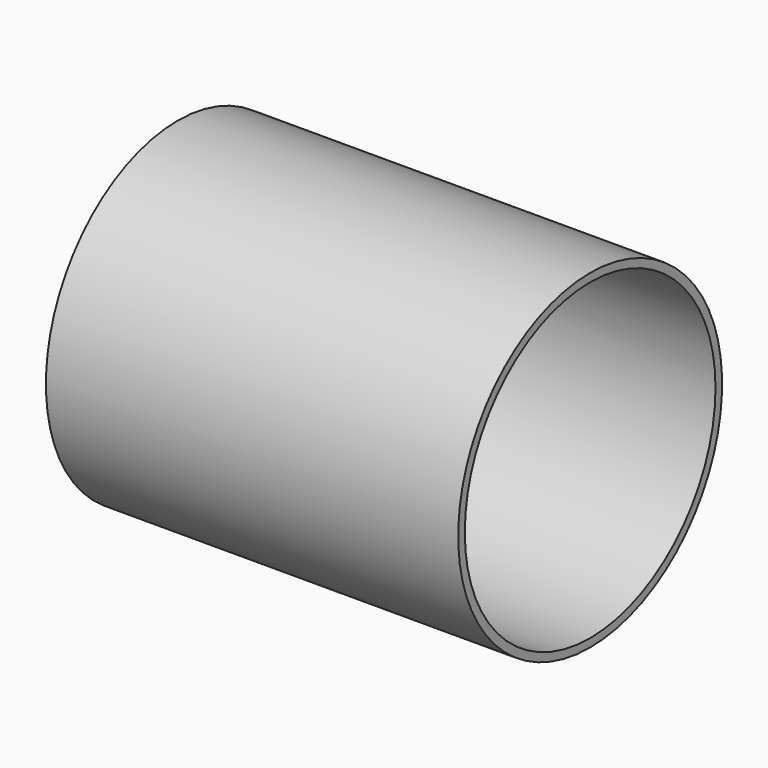
from build123d import *

# Parameters (mm, degrees)
CYLINDER146_R     = 1.9
CYLINDER146_DEPTH = 5
CYLINDER145_R     = 2
CYLINDER145_DEPTH = 5


with BuildPart() as cylinder003:
    # Cylinder146 → Cylinder146 (new body)
    with BuildSketch(Plane(origin=(-2.5, 0, 1), x_dir=(0, 0, -1), z_dir=(1, 0, 0))):
        Circle(CYLINDER146_R)
    extrude(amount=CYLINDER146_DEPTH)


with BuildPart() as cut003:
    # Cylinder145 → Cylinder145 (new body)
    with BuildSketch(Plane(origin=(-2.5, 0, 1), x_dir=(0, 0, -1), z_dir=(1, 0, 0))):
        Circle(CYLINDER145_R)
    extrude(amount=CYLINDER145_DEPTH)

    # Cut003: cut Cylinder003
    add(cylinder003.part, mode=Mode.SUBTRACT)


solid = cut003.part
